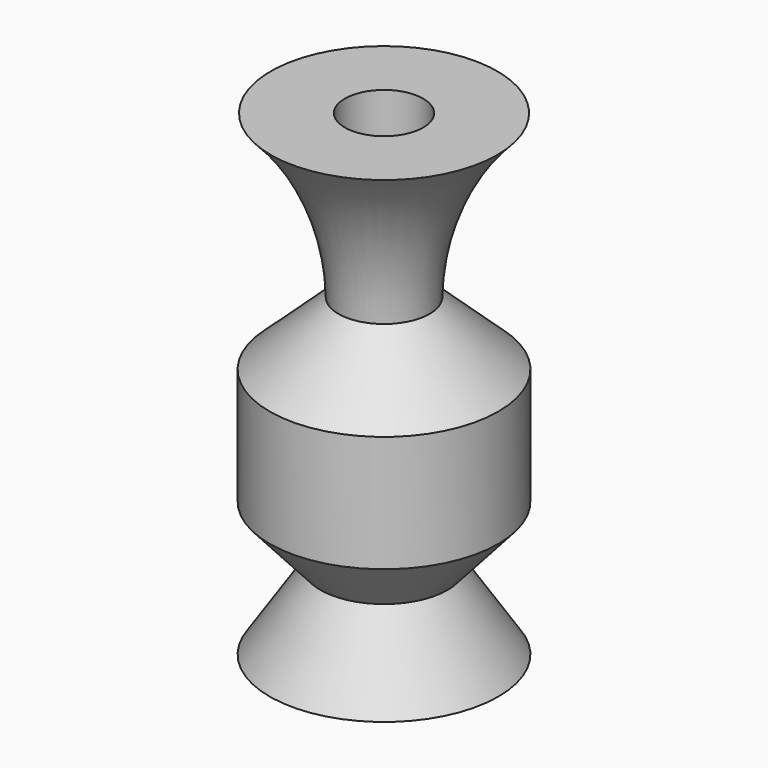
from build123d import *


with BuildPart() as f1:
    # F0 (on Front) → F1 (revolve)
    with BuildSketch(Plane.XZ):
        with BuildLine():
            Line((10.566192, 39.694604), (0, 39.694604))
            Line((0, 39.694604), (0, -62.254839))
            Line((0, -62.254839), (30.841852, -62.254839))
            Line((30.841852, -62.254839), (17.134365, -41.408036))
            Line((17.134365, -41.408036), (30.841852, -25.987111))
            Line((30.841852, -25.987111), (30.841852, 5.425883))
            Line((30.841852, 5.425883), (12.27963, 22.560244))
            ThreePointArc((12.27963, 22.560244), (17.207117, 46.167951), (30.55628, 66.252865))
            Line((30.55628, 66.252865), (10.566192, 66.252865))
            Line((10.566192, 66.252865), (10.566192, 39.694604))
        make_face()
    revolve(axis=Axis((0, 0, 6.710961), (0, 0, -1)))


solid = f1.part
